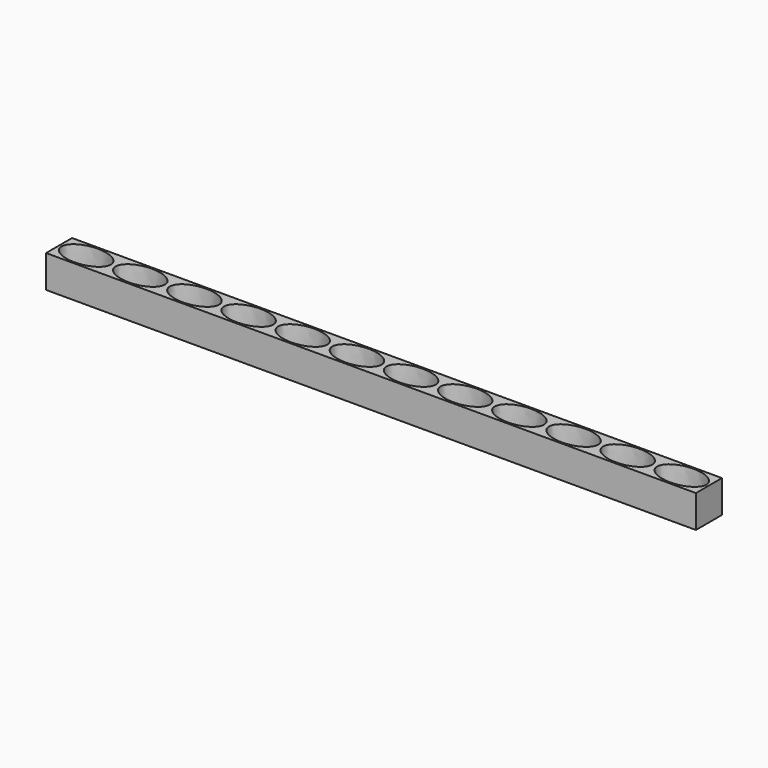
from build123d import *

# Parameters (mm, degrees)
F0_W     = 16.66
F0_H     = 10
F0_R     = 2
F1_DEPTH = 10
F4_DEPTH = 9
F5_ANGLE = -90


with BuildPart() as f1:
    # F0 (on Front) → F1 (new body)
    with BuildSketch(Plane.XZ):
        Rectangle(F0_W, F0_H)
        Circle(F0_R, mode=Mode.SUBTRACT)
        with Locations((-16.66, 0)):
            Rectangle(F0_W, F0_H)
        with Locations((-16.66, 0)):
            Circle(F0_R, mode=Mode.SUBTRACT)
        with Locations((16.66, 0)):
            Rectangle(F0_W, F0_H)
        with Locations((16.66, 0)):
            Circle(F0_R, mode=Mode.SUBTRACT)
        with Locations((-33.32, 0)):
            Rectangle(F0_W, F0_H)
        with Locations((-33.32, 0)):
            Circle(F0_R, mode=Mode.SUBTRACT)
        with Locations((33.32, 0)):
            Rectangle(F0_W, F0_H)
        with Locations((33.32, 0)):
            Circle(F0_R, mode=Mode.SUBTRACT)
        with Locations((-49.98, 0)):
            Rectangle(F0_W, F0_H)
        with Locations((-49.98, 0)):
            Circle(F0_R, mode=Mode.SUBTRACT)
        with Locations((49.98, 0)):
            Rectangle(F0_W, F0_H)
        with Locations((49.98, 0)):
            Circle(F0_R, mode=Mode.SUBTRACT)
        with Locations((-66.64, 0)):
            Rectangle(F0_W, F0_H)
        with Locations((-66.64, 0)):
            Circle(F0_R, mode=Mode.SUBTRACT)
        with Locations((66.64, 0)):
            Rectangle(F0_W, F0_H)
        with Locations((66.64, 0)):
            Circle(F0_R, mode=Mode.SUBTRACT)
        with Locations((-83.3, 0)):
            Rectangle(F0_W, F0_H)
        with Locations((-83.3, 0)):
            Circle(F0_R, mode=Mode.SUBTRACT)
        with Locations((-99.96, 0)):
            Rectangle(F0_W, F0_H)
        with Locations((-99.96, 0)):
            Circle(F0_R, mode=Mode.SUBTRACT)
        with Locations((-116.62, 0)):
            Rectangle(F0_W, F0_H)
        with Locations((-116.62, 0)):
            Circle(F0_R, mode=Mode.SUBTRACT)
    extrude(amount=F1_DEPTH)

    # F3 (on offset) → F4 (cut)
    with BuildSketch(Plane.XZ.offset(10)):
        with BuildLine():
            add(Edge.make_bspline(
                [(-75.7248969182, 0), (-75.7248969182, 7.7941499762), (-87.0875515409, 3.8970749881), (-98.4502061635, 0), (-87.0875515409, -3.8970749881), (-75.7248969182, -7.7941499762), (-75.7248969182, 0)],
                knots=[0, 0, 0, 2.0943951024, 2.0943951024, 4.1887902048, 4.1887902048, 6.2831853072, 6.2831853072, 6.2831853072], degree=2, weights=[1, 0.5, 1, 0.5, 1, 0.5, 1]))
        make_face()
        with BuildLine():
            add(Edge.make_bspline(
                [(-109.0448969182, 0), (-109.0448969182, 7.7941499762), (-120.4075515409, 3.8970749881), (-131.7702061635, 0), (-120.4075515409, -3.8970749881), (-109.0448969182, -7.7941499762), (-109.0448969182, 0)],
                knots=[0, 0, 0, 2.0943951024, 2.0943951024, 4.1887902048, 4.1887902048, 6.2831853072, 6.2831853072, 6.2831853072], degree=2, weights=[1, 0.5, 1, 0.5, 1, 0.5, 1]))
        make_face()
        with BuildLine():
            add(Edge.make_bspline(
                [(-107.5351030818, 0), (-107.5351030818, -7.7941499762), (-96.1724484591, -3.8970749881), (-84.8097938365, 0), (-96.1724484591, 3.8970749881), (-107.5351030818, 7.7941499762), (-107.5351030818, 0)],
                knots=[0, 0, 0, 2.0943951024, 2.0943951024, 4.1887902048, 4.1887902048, 6.2831853072, 6.2831853072, 6.2831853072], degree=2, weights=[1, 0.5, 1, 0.5, 1, 0.5, 1]))
        make_face()
        with BuildLine():
            add(Edge.make_bspline(
                [(-74.2151030818, 0), (-74.2151030818, -7.7941499762), (-62.8524484591, -3.8970749881), (-51.4897938365, 0), (-62.8524484591, 3.8970749881), (-74.2151030818, 7.7941499762), (-74.2151030818, 0)],
                knots=[0, 0, 0, 2.0943951024, 2.0943951024, 4.1887902048, 4.1887902048, 6.2831853072, 6.2831853072, 6.2831853072], degree=2, weights=[1, 0.5, 1, 0.5, 1, 0.5, 1]))
        make_face()
        with BuildLine():
            add(Edge.make_bspline(
                [(-42.4048969182, 0), (-42.4048969182, 7.7941499762), (-53.7675515409, 3.8970749881), (-65.1302061635, 0), (-53.7675515409, -3.8970749881), (-42.4048969182, -7.7941499762), (-42.4048969182, 0)],
                knots=[0, 0, 0, 2.0943951024, 2.0943951024, 4.1887902048, 4.1887902048, 6.2831853072, 6.2831853072, 6.2831853072], degree=2, weights=[1, 0.5, 1, 0.5, 1, 0.5, 1]))
        make_face()
        with BuildLine():
            add(Edge.make_bspline(
                [(-40.8951030818, 0), (-40.8951030818, -7.7941499762), (-29.5324484591, -3.8970749881), (-18.1697938365, 0), (-29.5324484591, 3.8970749881), (-40.8951030818, 7.7941499762), (-40.8951030818, 0)],
                knots=[0, 0, 0, 2.0943951024, 2.0943951024, 4.1887902048, 4.1887902048, 6.2831853072, 6.2831853072, 6.2831853072], degree=2, weights=[1, 0.5, 1, 0.5, 1, 0.5, 1]))
        make_face()
        with BuildLine():
            add(Edge.make_bspline(
                [(-9.0848969182, 0), (-9.0848969182, 7.7941499762), (-20.4475515409, 3.8970749881), (-31.8102061635, 0), (-20.4475515409, -3.8970749881), (-9.0848969182, -7.7941499762), (-9.0848969182, 0)],
                knots=[0, 0, 0, 2.0943951024, 2.0943951024, 4.1887902048, 4.1887902048, 6.2831853072, 6.2831853072, 6.2831853072], degree=2, weights=[1, 0.5, 1, 0.5, 1, 0.5, 1]))
        make_face()
        with BuildLine():
            add(Edge.make_bspline(
                [(-7.5751030818, 0), (-7.5751030818, -7.7941499762), (3.7875515409, -3.8970749881), (15.1502061635, 0), (3.7875515409, 3.8970749881), (-7.5751030818, 7.7941499762), (-7.5751030818, 0)],
                knots=[0, 0, 0, 2.0943951024, 2.0943951024, 4.1887902048, 4.1887902048, 6.2831853072, 6.2831853072, 6.2831853072], degree=2, weights=[1, 0.5, 1, 0.5, 1, 0.5, 1]))
        make_face()
        with BuildLine():
            add(Edge.make_bspline(
                [(24.2351030818, 0), (24.2351030818, 7.7941499762), (12.8724484591, 3.8970749881), (1.5097938365, 0), (12.8724484591, -3.8970749881), (24.2351030818, -7.7941499762), (24.2351030818, 0)],
                knots=[0, 0, 0, 2.0943951024, 2.0943951024, 4.1887902048, 4.1887902048, 6.2831853072, 6.2831853072, 6.2831853072], degree=2, weights=[1, 0.5, 1, 0.5, 1, 0.5, 1]))
        make_face()
        with BuildLine():
            add(Edge.make_bspline(
                [(25.7448969182, 0), (25.7448969182, -7.7941499762), (37.1075515409, -3.8970749881), (48.4702061635, 0), (37.1075515409, 3.8970749881), (25.7448969182, 7.7941499762), (25.7448969182, 0)],
                knots=[0, 0, 0, 2.0943951024, 2.0943951024, 4.1887902048, 4.1887902048, 6.2831853072, 6.2831853072, 6.2831853072], degree=2, weights=[1, 0.5, 1, 0.5, 1, 0.5, 1]))
        make_face()
        with BuildLine():
            add(Edge.make_bspline(
                [(57.5551030818, 0), (57.5551030818, 7.7941499762), (46.1924484591, 3.8970749881), (34.8297938365, 0), (46.1924484591, -3.8970749881), (57.5551030818, -7.7941499762), (57.5551030818, 0)],
                knots=[0, 0, 0, 2.0943951024, 2.0943951024, 4.1887902048, 4.1887902048, 6.2831853072, 6.2831853072, 6.2831853072], degree=2, weights=[1, 0.5, 1, 0.5, 1, 0.5, 1]))
        make_face()
        with BuildLine():
            add(Edge.make_bspline(
                [(59.0648969182, 0), (59.0648969182, -7.7941499762), (70.4275515409, -3.8970749881), (81.7902061635, 0), (70.4275515409, 3.8970749881), (59.0648969182, 7.7941499762), (59.0648969182, 0)],
                knots=[0, 0, 0, 2.0943951024, 2.0943951024, 4.1887902048, 4.1887902048, 6.2831853072, 6.2831853072, 6.2831853072], degree=2, weights=[1, 0.5, 1, 0.5, 1, 0.5, 1]))
        make_face()
    extrude(amount=-F4_DEPTH, mode=Mode.SUBTRACT)


with BuildPart() as f1_1:
    # F5: moved
    add(f1.part.rotate(Axis((-116.62, 0, -5), (1, 0, 0)), F5_ANGLE))


solid = f1_1.part
